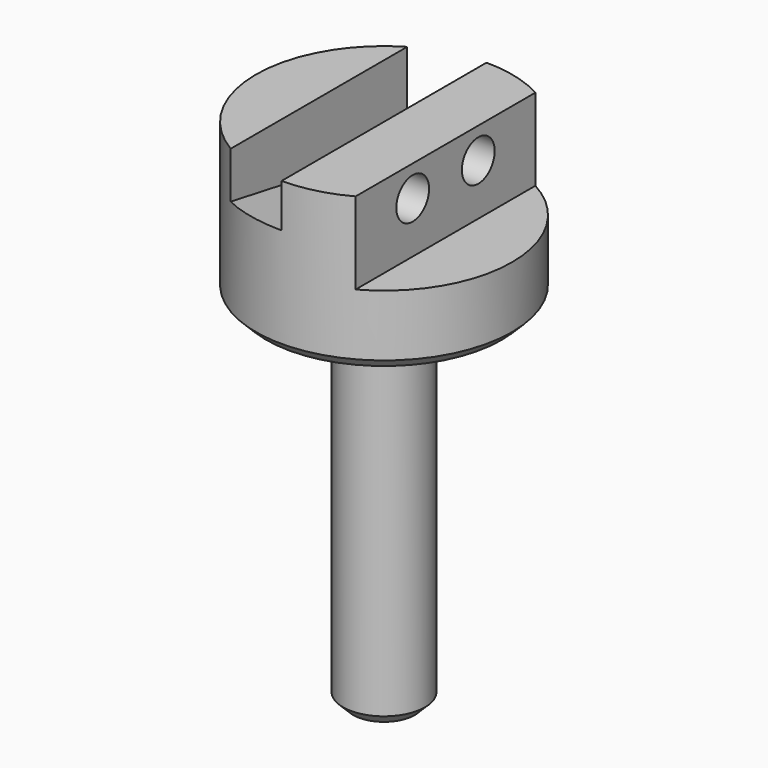
from build123d import *

# Parameters (mm, degrees)
F0_R      = 4
F1_DEPTH  = 35
F2_R      = 12.5
F2_R_2    = 4
F3_DEPTH  = 15
F4_W      = 6.5
F4_H      = 21.9317121995
F5_DEPTH  = 8
F9_W      = 6.35
F9_H      = 60
F10_DEPTH = 25
F11_R     = 2
F12_DEPTH = 8
F13_SIZE  = 1


with BuildPart() as f1:
    # F0 (on Top) → F1 (new body)
    with BuildSketch(Plane.XY):
        Circle(F0_R)
    extrude(amount=F1_DEPTH)

    # F2 (on face) → F3 (join)
    with BuildSketch(Plane.XY.offset(35)):
        Circle(F2_R)
        Circle(F2_R_2, mode=Mode.SUBTRACT)
        Circle(F2_R)
    extrude(amount=F3_DEPTH)

    # F4 (on face) → F5 (cut)
    with BuildSketch(Plane.XY.offset(50)):
        with Locations((9.25, 0)):
            Rectangle(F4_W, F4_H)
    extrude(amount=-F5_DEPTH, mode=Mode.SUBTRACT)

    # F9 (on offset) → F10 (cut)
    with BuildSketch(Plane(origin=(0, 7.447837655, 42.238786288), x_dir=(1, 0, 0), z_dir=(0, 0.1736481777, 0.984807753))):
        with Locations((-3.175, -7.9551495101)):
            Rectangle(F9_W, F9_H)
    extrude(amount=F10_DEPTH, mode=Mode.SUBTRACT)

    # F11 (on face) → F12 (cut)
    with BuildSketch(Plane.YZ.offset(6)):
        with Locations((4, 47)):
            Circle(F11_R)
        with Locations((-4, 47)):
            Circle(F11_R)
    extrude(amount=-F12_DEPTH, mode=Mode.SUBTRACT)

    # F13
    f13_edges = [f1.edges().sort_by_distance(p)[0] for p in [
        (-12.5, 0, 35),
        (-4, 0, 0),
    ]]
    chamfer(f13_edges, length=F13_SIZE)


solid = f1.part
